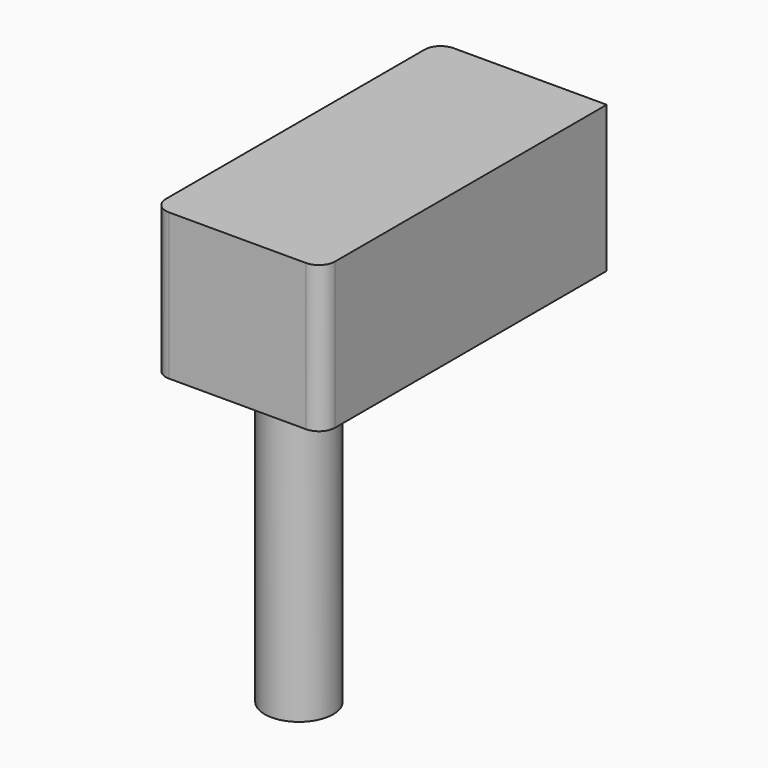
from build123d import *

# Parameters (mm, degrees)
F0_W     = 52.350345999
F0_H     = 45.2565550804
F1_DEPTH = 55
F2_R     = 5
F3_R     = 10.5851243618
F4_DEPTH = 100


with BuildPart() as f1:
    # F0 (on Front) → F1 (new body, symmetric)
    with BuildSketch(Plane.XZ):
        with Locations((26.1751729995, 22.6282775402)):
            Rectangle(F0_W, F0_H)
    extrude(amount=F1_DEPTH, both=True)

    # F2
    f2_edges = [f1.edges().sort_by_distance(p)[0] for p in [
        (52.350346, -55, 22.628278),
        (0, -55, 22.628278),
        (0, 55, 22.628278),
    ]]
    fillet(f2_edges, radius=F2_R)

    # F3 (on face) → F4 (join)
    with BuildSketch(Plane(origin=(0, 0, 0), x_dir=(1, 0, 0), z_dir=(0, 0, -1))):
        with Locations((15.048192814, 17.3339936882)):
            Circle(F3_R)
    extrude(amount=F4_DEPTH)


solid = f1.part
